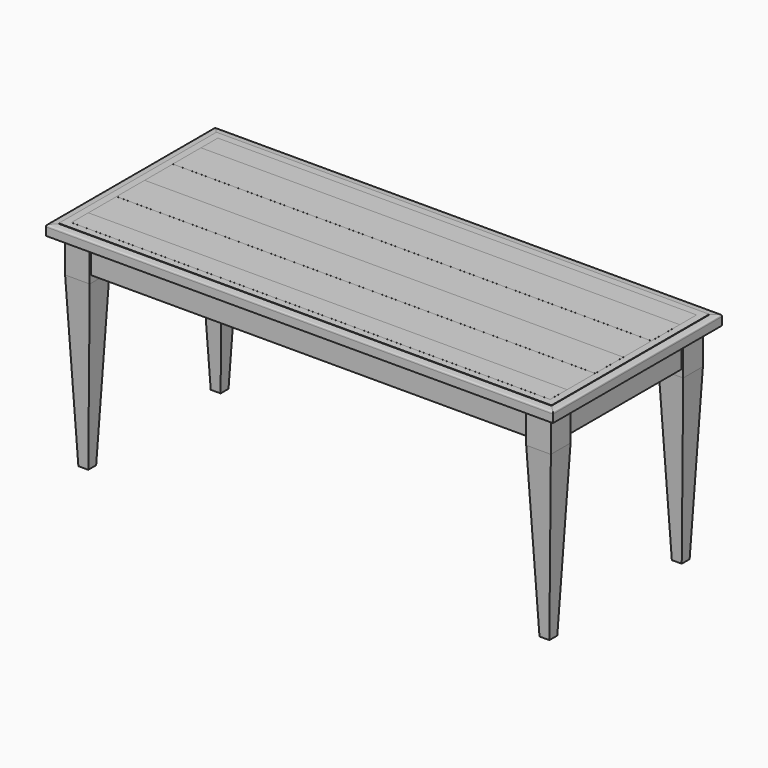
from build123d import *

# Parameters (mm, degrees)
F0_W      = 1727.2
F0_H      = 76.2
F1_DEPTH  = 38.1
F0_H_2    = 127
F2_DEPTH  = 38.227
F5_W      = 88.9
F5_H      = 88.9
F6_DEPTH  = 127
F7_W      = 1739.9
F7_H      = 673.1
F7_W_2    = 1701.8
F7_H_2    = 635
F8_DEPTH  = 101.6
F9_W      = 88.9
F9_H      = 88.9
F10_DEPTH = 609.6
F10_TAPER = 2.5


with BuildPart() as f1:
    # F0 (on Top) → F1 (new body)
    with BuildSketch(Plane.XY):
        with Locations((0, 292.1)):
            Rectangle(F0_W, F0_H)
    extrude(amount=F1_DEPTH)


with BuildPart() as f1b:
    # F0 (on Top) → F1, piece 2 (new body)
    with BuildSketch(Plane.XY):
        with Locations((0, 63.5)):
            Rectangle(F0_W, F0_H_2)
    extrude(amount=F1_DEPTH)


with BuildPart() as f1c:
    # F0 (on Top) → F1, piece 3 (new body)
    with BuildSketch(Plane.XY):
        with Locations((0, -190.5)):
            Rectangle(F0_W, F0_H_2)
    extrude(amount=F1_DEPTH)


with BuildPart() as f2:
    # F0 (on Top) → F2 (new body)
    with BuildSketch(Plane.XY):
        with Locations((0, 190.5)):
            Rectangle(F0_W, F0_H_2)
    extrude(amount=F2_DEPTH)


with BuildPart() as f2b:
    # F0 (on Top) → F2, piece 2 (new body)
    with BuildSketch(Plane.XY):
        with Locations((0, -63.5)):
            Rectangle(F0_W, F0_H_2)
    extrude(amount=F2_DEPTH)


with BuildPart() as f2c:
    # F0 (on Top) → F2, piece 3 (new body)
    with BuildSketch(Plane.XY):
        with Locations((0, -292.1)):
            Rectangle(F0_W, F0_H)
    extrude(amount=F2_DEPTH)


with BuildPart() as f4:
    # F4: sweep along a path in F0
    with BuildLine(Plane.XY) as f4_path:
        Line((-863.6, -330.2), (863.6, -330.2))
        Line((863.6, -330.2), (863.6, 330.2))
        Line((863.6, 330.2), (-863.6, 330.2))
        Line((-863.6, 330.2), (-863.6, -330.2))
    # F3 (on Right) → F4 (sweep)
    with BuildSketch(Plane.YZ):
        with BuildLine():
            Line((-381, 0), (-330.2, 0))
            Line((-330.2, 0), (-330.2, 38.1))
            Line((-330.2, 38.1), (-355.6, 38.1))
            Line((-355.6, 38.1), (-355.6, 36.5125))
            add(Edge.make_bspline(
                [(-355.6, 36.5125), (-360.7839997933, 36.5125), (-379.2794668616, 35.9099371042), (-381, 33.9002396899), (-381, 28.575)],
                knots=[0, 0, 0, 0, 0.6304609347, 1, 1, 1, 1], degree=3))
            Line((-381, 28.575), (-381, 0))
        make_face()
    sweep(path=f4_path.line, transition=Transition.RIGHT)


with BuildPart() as f6:
    # F5 (on Top) → F6 (new body)
    with BuildSketch(Plane.XY):
        with Locations((-831.85, -298.45)):
            Rectangle(F5_W, F5_H)
    extrude(amount=-F6_DEPTH)


with BuildPart() as f6b:
    # F5 (on Top) → F6, piece 2 (new body)
    with BuildSketch(Plane.XY):
        with Locations((831.85, -298.45)):
            Rectangle(F5_W, F5_H)
    extrude(amount=-F6_DEPTH)


with BuildPart() as f6c:
    # F5 (on Top) → F6, piece 3 (new body)
    with BuildSketch(Plane.XY):
        with Locations((831.85, 298.45)):
            Rectangle(F5_W, F5_H)
    extrude(amount=-F6_DEPTH)


with BuildPart() as f6d:
    # F5 (on Top) → F6, piece 4 (new body)
    with BuildSketch(Plane.XY):
        with Locations((-831.85, 298.45)):
            Rectangle(F5_W, F5_H)
    extrude(amount=-F6_DEPTH)


with BuildPart() as f8:
    # F7 (on Top) → F8 (new body)
    with BuildSketch(Plane.XY):
        Rectangle(F7_W, F7_H)
        Rectangle(F7_W_2, F7_H_2, mode=Mode.SUBTRACT)
    extrude(amount=-F8_DEPTH)


with BuildPart() as f10:
    # F9 (on face) → F10 (new body)
    with BuildSketch(Plane(origin=(0, 0, -127), x_dir=(1, 0, 0), z_dir=(0, 0, -1))):
        with Locations((-831.85, 298.45)):
            Rectangle(F9_W, F9_H)
    extrude(amount=F10_DEPTH, taper=F10_TAPER)


with BuildPart() as f10b:
    # F9 (on face) → F10, piece 2 (new body)
    with BuildSketch(Plane(origin=(0, 0, -127), x_dir=(1, 0, 0), z_dir=(0, 0, -1))):
        with Locations((831.85, 298.45)):
            Rectangle(F9_W, F9_H)
    extrude(amount=F10_DEPTH, taper=F10_TAPER)


with BuildPart() as f10c:
    # F9 (on face) → F10, piece 3 (new body)
    with BuildSketch(Plane(origin=(0, 0, -127), x_dir=(1, 0, 0), z_dir=(0, 0, -1))):
        with Locations((831.85, -298.45)):
            Rectangle(F9_W, F9_H)
    extrude(amount=F10_DEPTH, taper=F10_TAPER)


with BuildPart() as f10d:
    # F9 (on face) → F10, piece 4 (new body)
    with BuildSketch(Plane(origin=(0, 0, -127), x_dir=(1, 0, 0), z_dir=(0, 0, -1))):
        with Locations((-831.85, -298.45)):
            Rectangle(F9_W, F9_H)
    extrude(amount=F10_DEPTH, taper=F10_TAPER)


solid = Compound([f1.part, f1b.part, f1c.part, f2.part, f2b.part, f2c.part, f4.part, f6.part, f6b.part, f6c.part, f6d.part, f8.part, f10.part, f10b.part, f10c.part, f10d.part])
